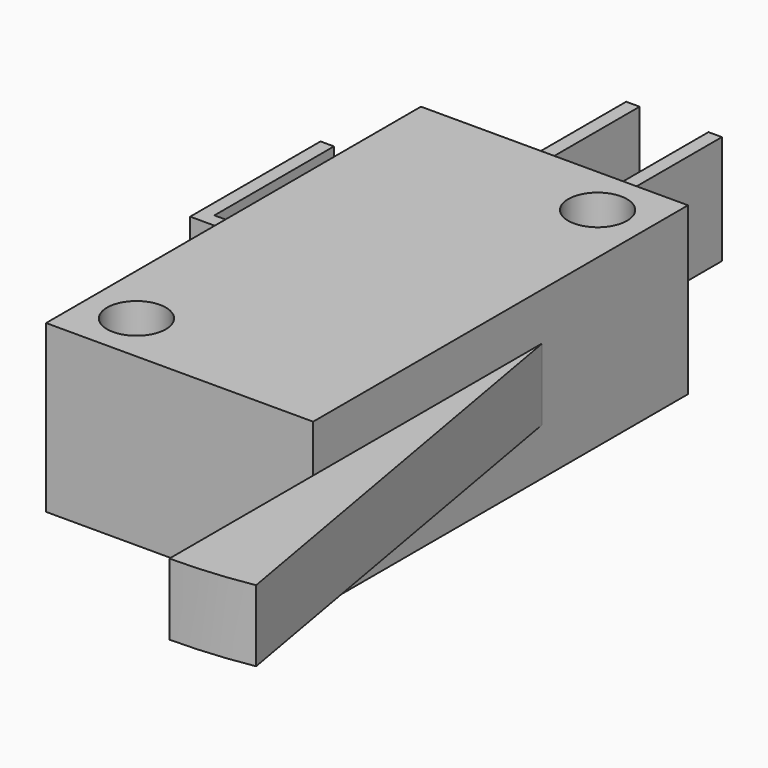
from build123d import *

# Parameters (mm, degrees)
SKETCH037_W             = 27.9
SKETCH037_H             = 15.9
SKETCH037_R             = 1.75
PAD025_DEPTH            = 9.9
SKETCH038_W             = 27.7
SKETCH038_H             = 4.25
REVOLUTION_ANGLE        = 10
SKETCH039_W             = 0.8
SKETCH039_H             = 6.5
PAD026_DEPTH            = 8.9
SKETCH040_W             = 0.8
SKETCH040_H             = 6.5
PAD027_DEPTH            = 3.5
SKETCH041_W             = 0.8
SKETCH041_H             = 6.5
PAD028_DEPTH            = 8.9
BODY007_PLACEMENT_ANGLE = 90


with BuildPart() as obj1:
    # Sketch037 → Pad025 (new body)
    with BuildSketch(Plane.XY):
        Rectangle(SKETCH037_W, SKETCH037_H)
        with Locations((10.96, 4.96)):
            Circle(SKETCH037_R, mode=Mode.SUBTRACT)
        with Locations((-10.96, -4.96)):
            Circle(SKETCH037_R, mode=Mode.SUBTRACT)
    extrude(amount=PAD025_DEPTH)

    # Sketch038 (on Face3 of Pad025) → Revolution (revolve)
    with BuildSketch(Plane.XZ.offset(7.95)):
        with Locations((10.8, 4.95)):
            Rectangle(SKETCH038_W, SKETCH038_H)
    revolve(axis=Axis((-3.15, -7.95, 7.075), (0, 0, -1)), revolution_arc=REVOLUTION_ANGLE)

    # Sketch039 (on Face2 of Revolution) → Pad026 (join)
    with BuildSketch(Plane(origin=(-13.95, 0, 0), x_dir=(0, -1, 0), z_dir=(-1, 0, 0))):
        with Locations((-2.45, 4.95)):
            Rectangle(SKETCH039_W, SKETCH039_H)
        with Locations((2.45, 4.95)):
            Rectangle(SKETCH039_W, SKETCH039_H)
    extrude(amount=PAD026_DEPTH)

    # Sketch040 (on Face1 of Pad026) → Pad027 (join)
    with BuildSketch(Plane(origin=(0, 7.95, 0), x_dir=(-1, 0, 0), z_dir=(0, 1, 0))):
        with Locations((1.55, 4.95)):
            Rectangle(SKETCH040_W, SKETCH040_H)
    extrude(amount=PAD027_DEPTH)

    # Sketch041 (on Face8 of Pad027) → Pad028 (join)
    with BuildSketch(Plane(origin=(-1.95, 0, 0), x_dir=(0, -1, 0), z_dir=(-1, 0, 0))):
        with Locations((-11.05, 4.95)):
            Rectangle(SKETCH041_W, SKETCH041_H)
    extrude(amount=PAD028_DEPTH)


with BuildPart() as obj1_1:
    # Body007 placement: moved
    add(obj1.part.moved(Location((50, 50, -10))).rotate(Axis((50, 50, -10), (0, 0, 1)), BODY007_PLACEMENT_ANGLE))


with BuildPart() as part_mirroring001:
    # Part__Mirroring001: instance of obj1
    add(obj1_1.part.mirror(Plane(origin=(0, 0, 0), x_dir=(1, 0, 0), z_dir=(0, 1, 0))))


solid = part_mirroring001.part
